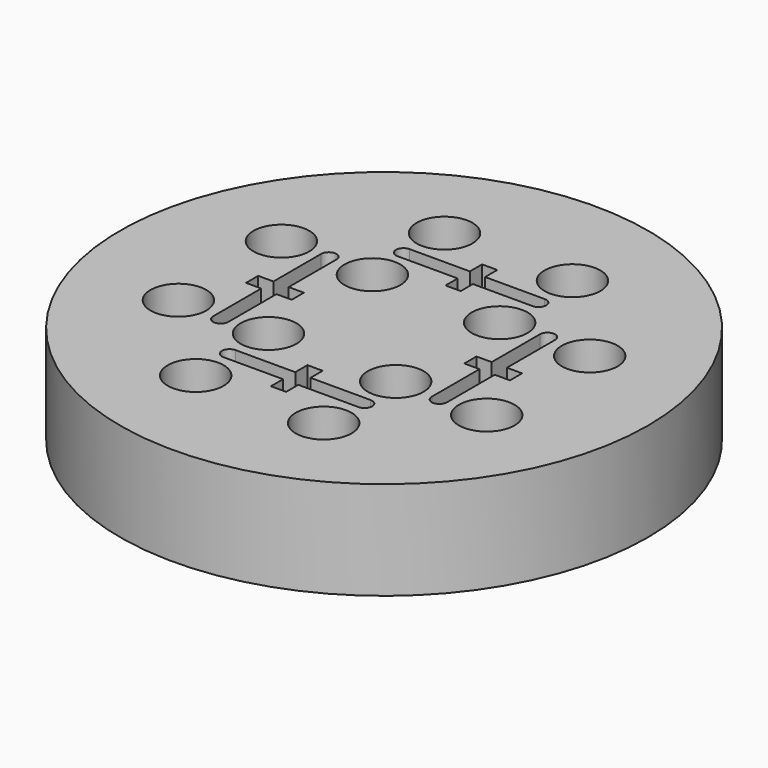
from build123d import *

# Parameters (mm, degrees)
F0_R     = 20.8
F1_DEPTH = 7.75
F2_R     = 2.2
F3_DEPTH = 7.751
F5_DEPTH = 7.751


with BuildPart() as f1:
    # F0 (on Top) → F1 (new body)
    with BuildSketch(Plane.XY):
        Circle(F0_R)
    extrude(amount=F1_DEPTH)

    # F2 (on face) → F3 (cut, through all)
    with BuildSketch(Plane.XY.offset(7.75)):
        with Locations((-5.002671, 12.204482)):
            Circle(F2_R)
        with Locations((-5.002671, 5.104482)):
            Circle(F2_R)
        with Locations((-12.173096, 5.104482)):
            Circle(F2_R)
        with Locations((-12.204482, -5.002671)):
            Circle(F2_R)
        with Locations((-5.104482, -5.002671)):
            Circle(F2_R)
        with Locations((-5.104482, -12.173096)):
            Circle(F2_R)
        with Locations((5.002671, -12.204482)):
            Circle(F2_R)
        with Locations((5.002671, -5.104482)):
            Circle(F2_R)
        with Locations((12.173096, -5.104482)):
            Circle(F2_R)
        with Locations((12.204482, 5.002671)):
            Circle(F2_R)
        with Locations((5.104482, 5.002671)):
            Circle(F2_R)
        with Locations((5.104482, 12.173096)):
            Circle(F2_R)
    extrude(amount=-F3_DEPTH, mode=Mode.SUBTRACT)

    # F4 (on face) → F5 (cut, through all)
    with BuildSketch(Plane(origin=(0, 0, 0), x_dir=(1, 0, 0), z_dir=(0, 0, -1))):
        with BuildLine():
            Line((6.799199, 0.6), (6.799199, -0.6))
            Line((6.799199, -0.6), (7.999199, -0.6))
            Line((7.999199, -0.6), (7.999199, -1.8))
            Line((7.999199, -1.8), (7.999199, -5.344601))
            ThreePointArc((7.999199, -5.344601), (8.5996, -5.945002), (9.2, -5.344601))
            Line((9.2, -5.344601), (9.2, -1.8))
            Line((9.2, -1.8), (9.2, -0.6))
            Line((9.2, -0.6), (10.4, -0.6))
            Line((10.4, -0.6), (10.4, 0.6))
            Line((10.4, 0.6), (9.2, 0.6))
            Line((9.2, 0.6), (9.2, 1.8))
            Line((9.2, 1.8), (9.2, 5.3))
            ThreePointArc((9.2, 5.3), (8.5996, 5.9004), (7.999199, 5.3))
            Line((7.999199, 5.3), (7.999199, 1.8))
            Line((7.999199, 1.8), (7.999199, 0.6))
            Line((7.999199, 0.6), (6.799199, 0.6))
        make_face()
        with BuildLine():
            Line((-1.8, 9.2), (-5.3, 9.2))
            ThreePointArc((-5.3, 9.2), (-5.9004, 8.5996), (-5.3, 7.999199))
            Line((-5.3, 7.999199), (-1.8, 7.999199))
            Line((-1.8, 7.999199), (-0.6, 7.999199))
            Line((-0.6, 7.999199), (-0.6, 6.799199))
            Line((-0.6, 6.799199), (0.6, 6.799199))
            Line((0.6, 6.799199), (0.6, 7.999199))
            Line((0.6, 7.999199), (1.8, 7.999199))
            Line((1.8, 7.999199), (5.344601, 7.999199))
            ThreePointArc((5.344601, 7.999199), (5.945002, 8.5996), (5.344601, 9.2))
            Line((5.344601, 9.2), (1.8, 9.2))
            Line((1.8, 9.2), (0.6, 9.2))
            Line((0.6, 9.2), (0.6, 10.4))
            Line((0.6, 10.4), (-0.6, 10.4))
            Line((-0.6, 10.4), (-0.6, 9.2))
            Line((-0.6, 9.2), (-1.8, 9.2))
        make_face()
        with BuildLine():
            Line((-9.2, -1.8), (-9.2, -5.3))
            ThreePointArc((-9.2, -5.3), (-8.5996, -5.9004), (-7.999199, -5.3))
            Line((-7.999199, -5.3), (-7.999199, -1.8))
            Line((-7.999199, -1.8), (-7.999199, -0.6))
            Line((-7.999199, -0.6), (-6.799199, -0.6))
            Line((-6.799199, -0.6), (-6.799199, 0.6))
            Line((-6.799199, 0.6), (-7.999199, 0.6))
            Line((-7.999199, 0.6), (-7.999199, 1.8))
            Line((-7.999199, 1.8), (-7.999199, 5.344601))
            ThreePointArc((-7.999199, 5.344601), (-8.5996, 5.945002), (-9.2, 5.344601))
            Line((-9.2, 5.344601), (-9.2, 1.8))
            Line((-9.2, 1.8), (-9.2, 0.6))
            Line((-9.2, 0.6), (-10.4, 0.6))
            Line((-10.4, 0.6), (-10.4, -0.6))
            Line((-10.4, -0.6), (-9.2, -0.6))
            Line((-9.2, -0.6), (-9.2, -1.8))
        make_face()
        with BuildLine():
            Line((1.8, -9.2), (5.3, -9.2))
            ThreePointArc((5.3, -9.2), (5.9004, -8.5996), (5.3, -7.999199))
            Line((5.3, -7.999199), (1.8, -7.999199))
            Line((1.8, -7.999199), (0.6, -7.999199))
            Line((0.6, -7.999199), (0.6, -6.799199))
            Line((0.6, -6.799199), (-0.6, -6.799199))
            Line((-0.6, -6.799199), (-0.6, -7.999199))
            Line((-0.6, -7.999199), (-1.8, -7.999199))
            Line((-1.8, -7.999199), (-5.344601, -7.999199))
            ThreePointArc((-5.344601, -7.999199), (-5.945002, -8.5996), (-5.344601, -9.2))
            Line((-5.344601, -9.2), (-1.8, -9.2))
            Line((-1.8, -9.2), (-0.6, -9.2))
            Line((-0.6, -9.2), (-0.6, -10.4))
            Line((-0.6, -10.4), (0.6, -10.4))
            Line((0.6, -10.4), (0.6, -9.2))
            Line((0.6, -9.2), (1.8, -9.2))
        make_face()
    extrude(amount=-F5_DEPTH, mode=Mode.SUBTRACT)


solid = f1.part
